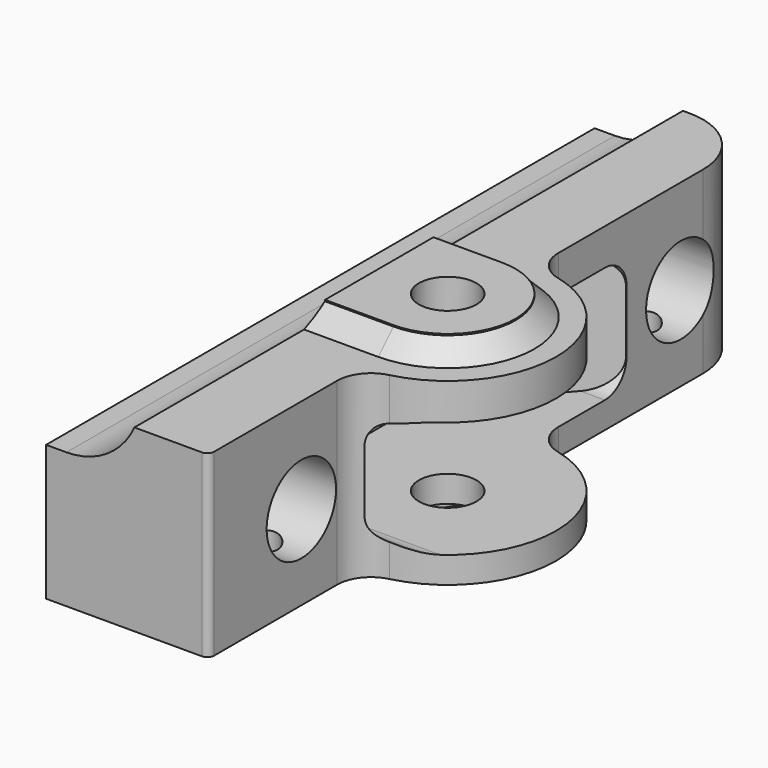
from build123d import *

# Parameters (mm, degrees)
SKETCH_R          = 4.25
PAD_DEPTH         = 28.5
PAD_DEPTH_BACK    = 5
FILLET_R          = 5
SKETCH002_R       = 6.4
POCKET_DEPTH      = 24.001
POCKET_DEPTH_BACK = -16.001
POCKET001_DEPTH   = 3
POCKET002_DEPTH   = 4
POCKET003_DEPTH   = 101.201
POCKET004_DEPTH   = 4
POCKET005_DEPTH   = 16
SKETCH028_R       = 22
POCKET006_DEPTH   = 25
SKETCH031_R       = 2.5
POCKET007_DEPTH   = 9
PAD001_DEPTH      = 17.2
SKETCH038_W       = 50
SKETCH038_H       = 26
POCKET008_DEPTH   = 2
SKETCH039_R       = 4.4
POCKET009_DEPTH   = 1.5
CHAMFER_SIZE      = 1.8
CHAMFER001_SIZE   = 2.8


with BuildPart() as part:
    # Sketch → Pad (new body, two sides)
    with BuildSketch(Plane.XY) as pad_sk:
        with BuildLine():
            ThreePointArc((0, -19), (16, -3), (0, 13))
            Line((0, 44.1), (0, 13))
            ThreePointArc((0, 44.1), (-2.928932, 51.171068), (-10, 54.1))
            Line((-24, 54.1), (-10, 54.1))
            Line((-24, 54.1), (-24, -47.1))
            Line((-24, -47.1), (-1, -47.1))
            ThreePointArc((-1, -47.1), (-0.292893, -46.807107), (0, -46.1))
            Line((0, -19), (0, -46.1))
        make_face()
        with Locations((0, -3)):
            Circle(SKETCH_R, mode=Mode.SUBTRACT)
    extrude(amount=PAD_DEPTH)
    extrude(pad_sk.sketch, amount=-PAD_DEPTH_BACK)

    # Fillet
    fillet_edges = [part.edges().sort_by_distance(p)[0] for p in [
        (0, 13, 11.75),
        (0, -19, 11.75),
    ]]
    fillet(fillet_edges, radius=FILLET_R)

    # Sketch002 → Pocket (cut, two sides)
    with BuildSketch(Plane.YZ) as pocket_sk:
        with Locations((-30, 11.5)):
            Circle(SKETCH002_R)
        with Locations((40, 11.5)):
            Circle(SKETCH002_R)
    extrude(amount=-POCKET_DEPTH, mode=Mode.SUBTRACT)
    extrude(pocket_sk.sketch, amount=-POCKET_DEPTH_BACK, mode=Mode.SUBTRACT)

    # Sketch013 → Pocket001 (cut)
    with BuildSketch(Plane.XY.offset(28.5)):
        with BuildLine():
            ThreePointArc((0, -13), (10, -3), (0, 7))
            Line((-40, 7), (0, 7))
            Line((-40, 7), (-40, 60))
            Line((-40, 60), (30, 60))
            Line((30, 60), (30, -60))
            Line((30, -60), (-40, -60))
            Line((-40, -60), (-40, -13))
            Line((-40, -13), (0, -13))
        make_face()
    extrude(amount=-POCKET001_DEPTH, mode=Mode.SUBTRACT)

    # Sketch024 → Pocket002 (cut)
    with BuildSketch(Plane(origin=(0, 0, -5), x_dir=(1, 0, 0), z_dir=(0, 0, -1))):
        with BuildLine():
            Line((0, 13), (-40, 13))
            Line((-40, 13), (-40, 65))
            Line((-40, 65), (24, 65))
            Line((24, 65), (24, -65))
            Line((24, -65), (-40, -65))
            Line((-40, -7), (-40, -65))
            Line((-40, -7), (0, -7))
            ThreePointArc((0, -7), (10, 3), (0, 13))
        make_face()
    extrude(amount=-POCKET002_DEPTH, mode=Mode.SUBTRACT)

    # Sketch029 → Pocket003 (cut, through all)
    with BuildSketch(Plane(origin=(0, 54.1, 0), x_dir=(-1, 0, 0), z_dir=(0, 1, 0))):
        with BuildLine():
            ThreePointArc((32, 30), (13.221825, 37.778175), (21, 19))
            Line((21, 19), (32, 19))
            Line((32, 30), (32, 19))
        make_face()
    extrude(amount=-POCKET003_DEPTH, mode=Mode.SUBTRACT)

    # Sketch027 → Pocket004 (cut)
    with BuildSketch(Plane(origin=(0, 0, -5), x_dir=(1, 0, 0), z_dir=(0, 0, -1))):
        Polygon((3.925982, 9.8), (-3.925982, 9.8), (-7.851964, 3), (-3.925982, -3.8), (3.925982, -3.8), (7.851964, 3), align=None)
    extrude(amount=-POCKET004_DEPTH, mode=Mode.SUBTRACT)

    # Sketch025 → Pocket005 (cut, symmetric)
    with BuildSketch(Plane.YZ):
        with BuildLine():
            Line((-16, 20.1), (26, 20.1))
            ThreePointArc((30, 16), (28.864001, 18.892928), (26, 20.1))
            Line((30, 16), (30, 7))
            ThreePointArc((26, 2.9), (28.864001, 4.107072), (30, 7))
            Line((26, 2.9), (-16, 2.9))
            ThreePointArc((-20, 7), (-18.864001, 4.107072), (-16, 2.9))
            Line((-20, 7), (-20, 16))
            ThreePointArc((-16, 20.1), (-18.864001, 18.892928), (-20, 16))
        make_face()
    extrude(amount=POCKET005_DEPTH, both=True, mode=Mode.SUBTRACT)

    # Sketch028 → Pocket006 (cut)
    with BuildSketch(Plane(origin=(0, 54.1, 0), x_dir=(-1, 0, 0), z_dir=(0, 1, 0))):
        with Locations((21, -20)):
            Circle(SKETCH028_R)
    extrude(amount=-POCKET006_DEPTH, mode=Mode.SUBTRACT)

    # Sketch031 → Pocket007 (cut)
    with BuildSketch(Plane(origin=(0, 0, -1), x_dir=(1, 0, 0), z_dir=(0, 0, -1))):
        with Locations((-6, 30)):
            Circle(SKETCH031_R)
        with Locations((-6, -40)):
            Circle(SKETCH031_R)
    extrude(amount=-POCKET007_DEPTH, mode=Mode.SUBTRACT)

    # Sketch032 → Pad001 (new body)
    with BuildSketch(Plane.XY.offset(2.9)):
        Polygon((0, -22), (-16, -11.5), (-16, -22), align=None)
        Polygon((-16, 12), (0, 30.1), (-16, 30.1), align=None)
    extrude(amount=PAD001_DEPTH)

    # Sketch038 → Pocket008 (cut)
    with BuildSketch(Plane(origin=(0, 0, -5), x_dir=(1, 0, 0), z_dir=(0, 0, -1))):
        with Locations((-10, 2)):
            Rectangle(SKETCH038_W, SKETCH038_H)
    extrude(amount=-POCKET008_DEPTH, mode=Mode.SUBTRACT)

    # Sketch039 → Pocket009 (cut)
    with BuildSketch(Plane(origin=(0, 0, -1), x_dir=(1, 0, 0), z_dir=(0, 0, -1))):
        with Locations((-6, 30)):
            Circle(SKETCH039_R)
        with Locations((-6, -40)):
            Circle(SKETCH039_R)
    extrude(amount=-POCKET009_DEPTH, mode=Mode.SUBTRACT)

    # Chamfer
    chamfer_edges = [part.edges().sort_by_distance(p)[0] for p in [
        (-12, -13, -1),
        (10, -3, -1),
        (-12, 7, -1),
    ]]
    chamfer(chamfer_edges, length=CHAMFER_SIZE)

    # Chamfer001
    chamfer001_edges = [part.edges().sort_by_distance(p)[0] for p in [
        (-5.481285, 7, 25.5),
        (10, -3, 25.5),
        (-5.481285, -13, 25.5),
    ]]
    chamfer(chamfer001_edges, length=CHAMFER001_SIZE)


solid = part.part
